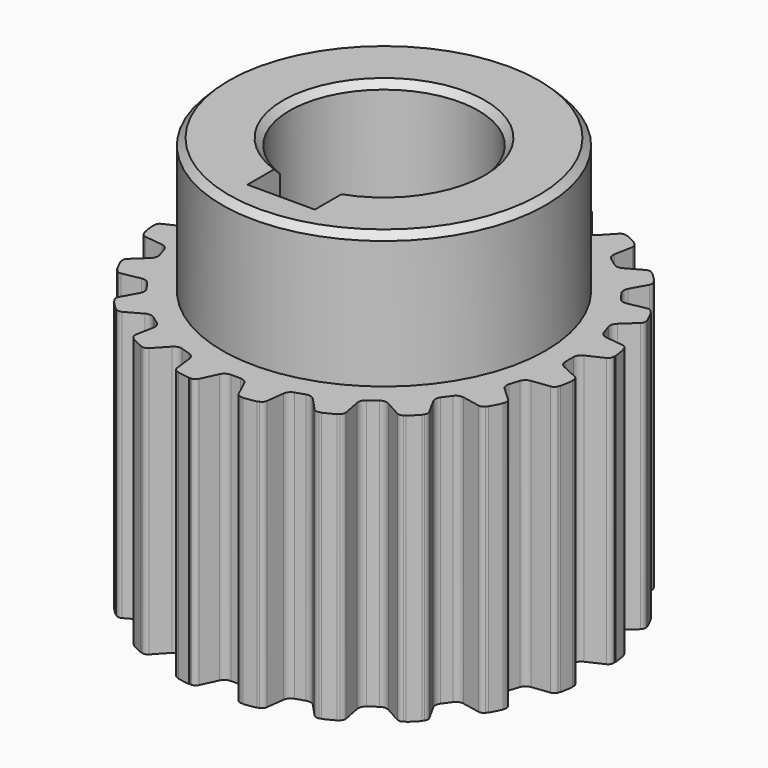
from build123d import *

# Parameters (mm, degrees)
SKETCH_R           = 15.7
PAD_DEPTH          = 20
POCKET_DEPTH       = 20
POLARPATTERN_COUNT = 20
SKETCH003_R        = 12
PAD001_DEPTH       = 10
POCKET001_DEPTH    = 30
CHAMFER_SIZE       = 0.5


with BuildPart() as part:
    # Sketch → Pad (new body)
    with BuildSketch(Plane.XY.offset(20)):
        Circle(SKETCH_R)
    extrude(amount=PAD_DEPTH)

    # Sketch002 → Pocket (cut)
    with BuildSketch(Plane.XY.offset(40)):
        with BuildLine():
            ThreePointArc((-1.48, 15.319049), (-1.627604, 15.487358), (-1.842524, 15.55))
            Line((-1.842524, 15.55), (-2, 15.55))
            Line((-2, 17), (-2, 15.55))
            Line((-2, 17), (2, 17))
            Line((2, 17), (2, 15.55))
            Line((1.842524, 15.55), (2, 15.55))
            ThreePointArc((1.842524, 15.55), (1.627604, 15.487358), (1.48, 15.319049))
            Line((1.48, 15.319049), (0.909881, 14.096424))
            ThreePointArc((0.366098, 13.75), (0.688476, 13.843964), (0.909881, 14.096424))
            Line((-0.366098, 13.75), (0.366098, 13.75))
            ThreePointArc((-0.909881, 14.096424), (-0.688476, 13.843964), (-0.366098, 13.75))
            Line((-1.48, 15.319049), (-0.909881, 14.096424))
        make_face()
    pocket = extrude(amount=-POCKET_DEPTH, mode=Mode.SUBTRACT)

    # PolarPattern: Pocket ×20 about axis
    polarpattern_axis = Axis((0, 0, 40), (0, 0, 1))
    for i in range(1, POLARPATTERN_COUNT):
        add(pocket.rotate(polarpattern_axis, i * 360 / POLARPATTERN_COUNT), mode=Mode.SUBTRACT)

    # Sketch003 → Pad001 (new body)
    with BuildSketch(Plane.XY.offset(40)):
        Circle(SKETCH003_R)
    extrude(amount=PAD001_DEPTH)

    # Sketch001 → Pocket001 (cut)
    with BuildSketch(Plane.XY.offset(50)):
        with BuildLine():
            Line((2.5, -6.538348), (2.5, -9.538348))
            Line((2.5, -9.538348), (-2.5, -9.538348))
            Line((-2.5, -9.538348), (-2.5, -6.538348))
            ThreePointArc((2.5, -6.538348), (0, 7), (-2.5, -6.538348))
        make_face()
    extrude(amount=-POCKET001_DEPTH, mode=Mode.SUBTRACT)

    # Chamfer
    chamfer_edges = [part.edges().sort_by_distance(p)[0] for p in [
        (0, 7, 50),
        (-12, 0, 50),
        (0, 7, 20),
    ]]
    chamfer(chamfer_edges, length=CHAMFER_SIZE)


solid = part.part
